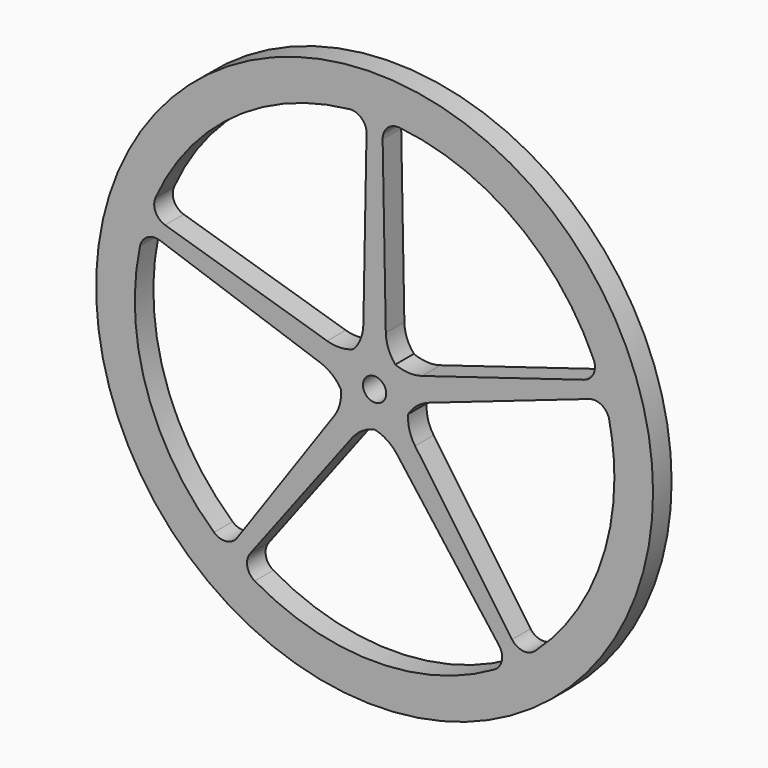
from build123d import *

# Parameters (mm, degrees)
F0_R     = 36
F0_R_2   = 1.5
F1_DEPTH = 3
F2_R     = 2
F3_R     = 5.08
F4_COUNT = 5


with BuildPart() as f1:
    # F0 (on Front) → F1 (new body)
    with BuildSketch(Plane.XZ):
        Circle(F0_R)
        with BuildLine():
            ThreePointArc((-0.9998699187, 30.9838709677), (0, 31), (0.9998699187, 30.9838709677))
            ThreePointArc((0.9998699187, 30.9838709677), (22.2710121849, 21.5639054037), (31, 0))
            ThreePointArc((31, 0), (-21.5639054037, -22.2710121849), (-0.9998699187, 30.9838709677))
        make_face(mode=Mode.SUBTRACT)
        with BuildLine():
            ThreePointArc((-1.5, 4.2426406871), (0, 4.5), (1.5, 4.2426406871))
            Line((1.5, 4.2426406871), (0.9998699187, 30.9838709677))
            ThreePointArc((0.9998699187, 30.9838709677), (0, 31), (-0.9998699187, 30.9838709677))
            Line((-0.9998699187, 30.9838709677), (-1.5, 4.2426406871))
        make_face()
        with BuildLine():
            ThreePointArc((-1.5, 4.2426406871), (-2.5980762114, -3.6742346142), (4.5, 0))
            ThreePointArc((4.5, 0), (3.6742346142, 2.5980762114), (1.5, 4.2426406871))
            ThreePointArc((1.5, 4.2426406871), (0, 4.5), (-1.5, 4.2426406871))
        make_face()
        Circle(F0_R_2, mode=Mode.SUBTRACT)
    extrude(amount=F1_DEPTH)

    # F2
    f2_edges = [f1.edges().sort_by_distance(p)[0] for p in [
        (0.99987, -1.5, 30.983871),
        (-0.99987, -1.5, 30.983871),
    ]]
    fillet(f2_edges, radius=F2_R)

    # F3
    f3_edges = [f1.edges().sort_by_distance(p)[0] for p in [
        (-1.5, -1.5, 4.242641),
        (1.5, -1.5, 4.242641),
    ]]
    fillet(f3_edges, radius=F3_R)

    # F4: F1 ×5 about axis
    f4_axis = Axis((0, 0, 0), (0, 1, 0))


with BuildPart() as f1_1:
    add(f1.part)
    for i in range(1, F4_COUNT):
        add(f1.part.rotate(f4_axis, i * 360 / F4_COUNT))


solid = f1_1.part
